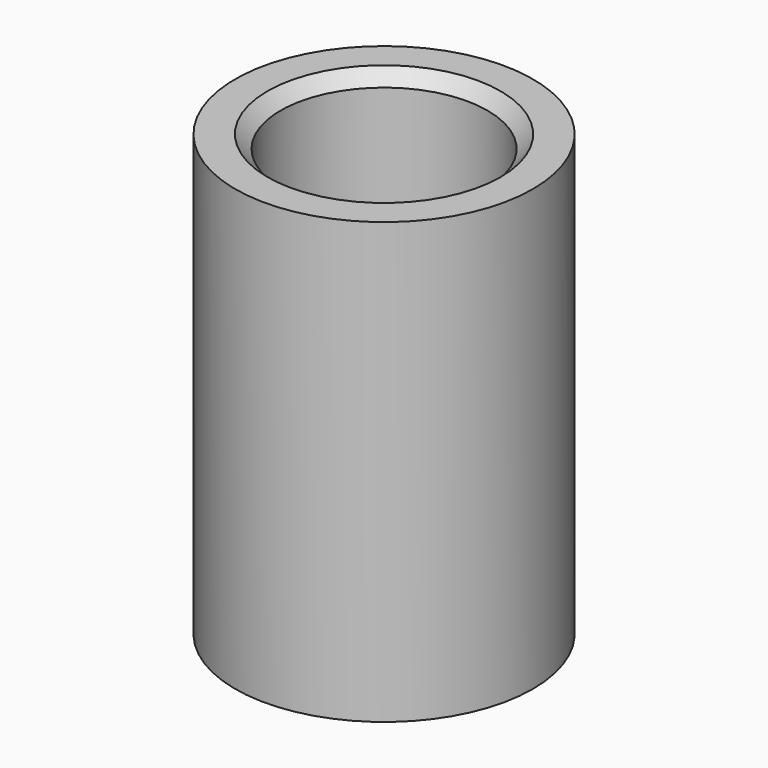
from build123d import *

# Parameters (mm, degrees)
SKETCH_R     = 5.75
SKETCH_R_2   = 4
PAD_DEPTH    = 17
CHAMFER_SIZE = 0.5


with BuildPart() as part:
    # Sketch → Pad (new body)
    with BuildSketch(Plane.XY):
        Circle(SKETCH_R)
        Circle(SKETCH_R_2, mode=Mode.SUBTRACT)
    extrude(amount=PAD_DEPTH)

    # Chamfer
    chamfer_edges = [part.edges().sort_by_distance(p)[0] for p in [
        (-4, 0, 17),
    ]]
    chamfer(chamfer_edges, length=CHAMFER_SIZE)


solid = part.part
